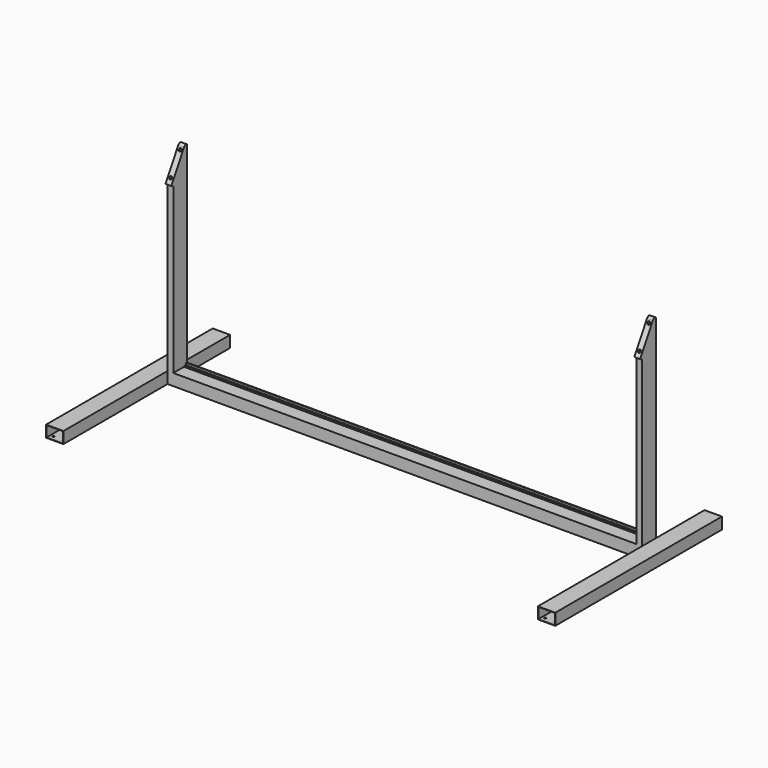
from build123d import *

# Parameters (mm, degrees)
PAD002_DEPTH    = 12.7
SKETCH003_W     = 152.4
SKETCH003_H     = 25.4
SKETCH003_R     = 6.35
PAD003_DEPTH    = 12.7
SKETCH006_R     = 3.175
POCKET001_DEPTH = 6.35
FILLET_R        = 12.446
SKETCH_W        = 76.2
SKETCH_H        = 50.8
SKETCH_W_2      = 73.2
SKETCH_H_2      = 47.8
PAD_DEPTH       = 1042.67
SKETCH001_W     = 76.2
SKETCH001_H     = 50.8
SKETCH001_W_2   = 73.2
SKETCH001_H_2   = 47.8
PAD001_DEPTH    = 914.4
SKETCH004_R     = 3.96875
POCKET_DEPTH    = 6.35
PAD004_DEPTH    = 1016


with BuildPart() as frameupright:
    # Sketch002 → Pad002 (new body, symmetric)
    with BuildSketch(Plane.YZ):
        Polygon((38.1, 878.1034), (38.1, 25.4), (-38.1, 25.4), (-38.1, 746.121128), align=None)
    extrude(amount=PAD002_DEPTH, both=True)

    # Sketch003 (on Face4 of Pad002) → Pad003 (join)
    with BuildSketch(Plane(origin=(0, -351.654926, 203.028066), x_dir=(0, -0.5, -0.866025), z_dir=(0, -0.866025, 0.5))):
        with Locations((-703.309852, 0)):
            Rectangle(SKETCH003_W, SKETCH003_H)
        with Locations((-754.109852, 0)):
            Circle(SKETCH003_R, mode=Mode.SUBTRACT)
        with Locations((-652.509852, 0)):
            Circle(SKETCH003_R, mode=Mode.SUBTRACT)
    extrude(amount=PAD003_DEPTH)

    # Sketch006 (on Face1 of Pad003) → Pocket001 (cut)
    with BuildSketch(Plane.ZX.offset(38.1)):
        with Locations((714.375, -0.082469)):
            Circle(SKETCH006_R)
    extrude(amount=-POCKET001_DEPTH, mode=Mode.SUBTRACT)

    # Fillet
    fillet_edges = [frameupright.edges().sort_by_distance(p)[0] for p in [
        (0, 27.101477, 884.4534),
    ]]
    fillet(fillet_edges, radius=FILLET_R)


with BuildPart() as frameupright_1:
    # Body001 placement: moved
    add(frameupright.part.moved(Location((-1029.1, 0, 0))))


with BuildPart() as frameupright001:
    # Link base: copy of FrameUpright
    add(frameupright_1.part)


with BuildPart() as frameupright001_1:
    # Link placement: moved
    add(frameupright001.part.moved(Location((2057.8, 0, 0))))


with BuildPart() as fusion:
    # Sketch → Pad (new body, symmetric)
    with BuildSketch(Plane.YZ):
        Rectangle(SKETCH_W, SKETCH_H)
        Rectangle(SKETCH_W_2, SKETCH_H_2, mode=Mode.SUBTRACT)
    extrude(amount=PAD_DEPTH, both=True)

    # Sketch001 (on DatumPlane) → Pad001 (join)
    with BuildSketch(Plane(origin=(-1079.5, -609.6, 0), x_dir=(1, 0, 0), z_dir=(0, -1, 0))):
        Rectangle(SKETCH001_W, SKETCH001_H)
        Rectangle(SKETCH001_W_2, SKETCH001_H_2, mode=Mode.SUBTRACT)
        with Locations((2159, 0)):
            Rectangle(SKETCH001_W, SKETCH001_H)
        with Locations((2159, 0)):
            Rectangle(SKETCH001_W_2, SKETCH001_H_2, mode=Mode.SUBTRACT)
    extrude(amount=-PAD001_DEPTH)

    # Sketch004 (on Face12 of Pad001) → Pocket (cut)
    with BuildSketch(Plane.YX.offset(25.4)):
        with Locations((-588.9498, -1057.275)):
            Circle(SKETCH004_R)
        with Locations((-512.7498, -1057.275)):
            Circle(SKETCH004_R)
        with Locations((-588.9498, -1101.725)):
            Circle(SKETCH004_R)
        with Locations((-512.7498, -1101.725)):
            Circle(SKETCH004_R)
        with Locations((207.9498, -1057.275)):
            Circle(SKETCH004_R)
        with Locations((207.9498, -1101.725)):
            Circle(SKETCH004_R)
        with Locations((284.1498, -1057.275)):
            Circle(SKETCH004_R)
        with Locations((284.1498, -1101.725)):
            Circle(SKETCH004_R)
    pocket = extrude(amount=-POCKET_DEPTH, mode=Mode.SUBTRACT)

    # Mirrored: Pocket across Sketch004 H_Axis
    add(pocket.mirror(Plane(origin=(0, 0, -25.4), x_dir=(0, 0, -1), z_dir=(1, 0, 0))), mode=Mode.SUBTRACT)

    # Sketch005 → Pad004 (join, symmetric)
    with BuildSketch(Plane.YZ):
        Polygon((30.1625, 38.1), (33.3375, 38.1), (33.3375, 25.4), (20.6375, 25.4), (20.6375, 28.575), (30.1625, 28.575), align=None)
    extrude(amount=PAD004_DEPTH, both=True)

    # Fusion: union FrameUpright, FrameUpright001
    add(frameupright_1.part)
    add(frameupright001_1.part)


solid = fusion.part
